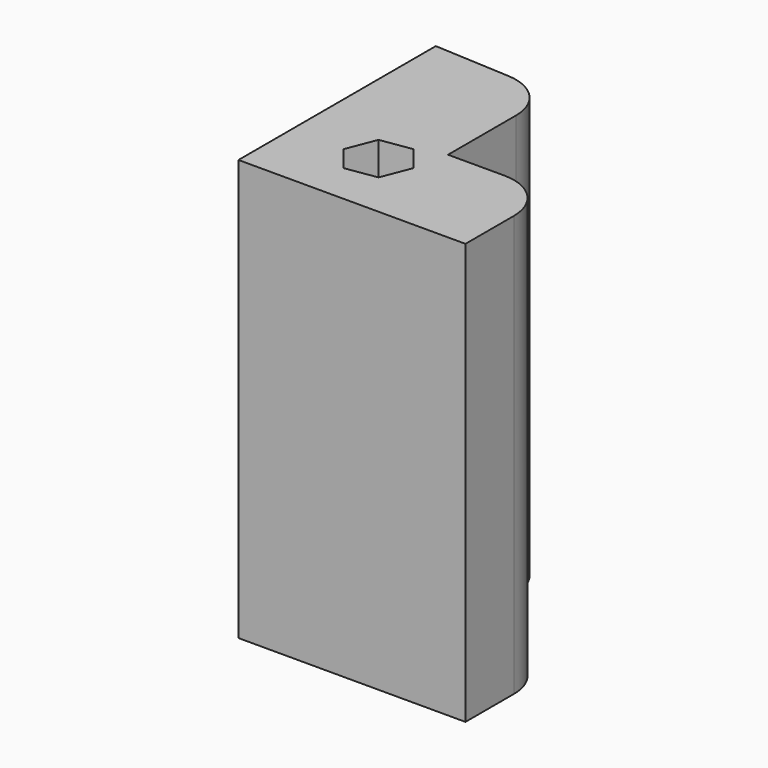
from build123d import *

# Parameters (mm, degrees)
F1_DEPTH = 25
F2_DEPTH = 30


with BuildPart() as f1:
    # F0 (on Top) → F1 (new body)
    with BuildSketch(Plane.XY):
        with BuildLine():
            Line((-45.088276, 38.401608), (-55.051442, 38.935348))
            Line((-55.051442, 38.935348), (-55.051442, 6.703155))
            Line((-55.051442, 6.703155), (-25.386417, 6.703155))
            Line((-25.386417, 6.703155), (-25.386417, 14.615189))
            ThreePointArc((-25.386417, 14.615189), (-27.246289, 19.105317), (-31.736417, 20.965189))
            Line((-31.736417, 20.965189), (-39.077967, 20.965189))
            Line((-39.077967, 20.965189), (-39.077967, 32.0607))
            ThreePointArc((-39.077967, 32.0607), (-40.819305, 36.429078), (-45.088276, 38.401608))
        make_face()
        Polygon((-41.484095, 12.620494), (-45.588305, 11.995407), (-48.181752, 15.237214), (-46.670988, 19.104108), (-42.566778, 19.729195), (-39.973332, 16.487388), align=None, mode=Mode.SUBTRACT)
    extrude(amount=F1_DEPTH)

    # F0 (on Top) + F1_face (on face) → F2 (join)
    with BuildSketch(Plane.XY):
        with BuildLine():
            Line((-45.088276, 38.401608), (-55.051442, 38.935348))
            Line((-55.051442, 38.935348), (-55.051442, 6.703155))
            Line((-55.051442, 6.703155), (-25.386417, 6.703155))
            Line((-25.386417, 6.703155), (-25.386417, 14.615189))
            ThreePointArc((-25.386417, 14.615189), (-27.246289, 19.105317), (-31.736417, 20.965189))
            Line((-31.736417, 20.965189), (-39.077967, 20.965189))
            Line((-39.077967, 20.965189), (-39.077967, 32.0607))
            ThreePointArc((-39.077967, 32.0607), (-40.819305, 36.429078), (-45.088276, 38.401608))
        make_face()
        Polygon((-41.484095, 12.620494), (-45.588305, 11.995407), (-48.181752, 15.237214), (-46.670988, 19.104108), (-42.566778, 19.729195), (-39.973332, 16.487388), align=None, mode=Mode.SUBTRACT)
    with BuildSketch(Plane(origin=(-43.143558, 20.28175, 25), x_dir=(1, 0, 0), z_dir=(0, 0, 1))):
        with BuildLine():
            Line((-1.944718, 18.119858), (-11.907884, 18.653599))
            Line((-11.907884, 18.653599), (-11.907884, -13.578595))
            Line((-11.907884, -13.578595), (17.757141, -13.578595))
            Line((17.757141, -13.578595), (17.757141, -5.666561))
            ThreePointArc((17.757141, -5.666561), (15.897269, -1.176433), (11.407141, 0.683439))
            Line((11.407141, 0.683439), (4.065591, 0.683439))
            Line((4.065591, 0.683439), (4.065591, 11.77895))
            ThreePointArc((4.065591, 11.77895), (2.324253, 16.147328), (-1.944718, 18.119858))
        make_face()
        Polygon((1.659463, -7.661255), (-2.444747, -8.286343), (-5.038193, -5.044536), (-3.52743, -1.177642), (0.57678, -0.552555), (3.170227, -3.794362), align=None, mode=Mode.SUBTRACT)
    extrude(amount=F2_DEPTH)


solid = f1.part
